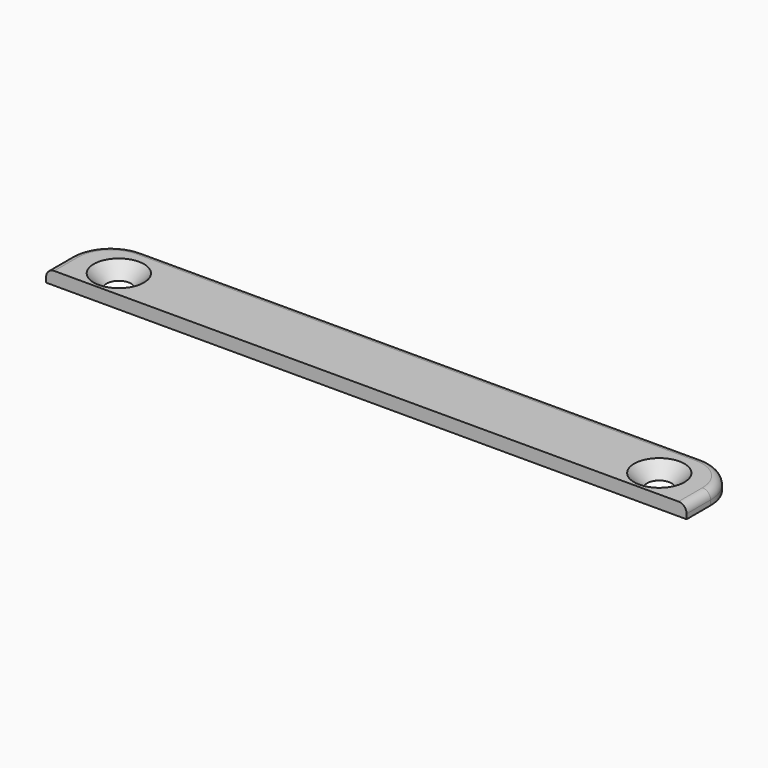
from build123d import *

# Parameters (mm, degrees)
SKETCH_W     = 79.03
SKETCH_H     = 8.7
PAD_DEPTH    = 1.6
SKETCH001_R  = 1.5
POCKET_DEPTH = 1.601
FILLET_R     = 5
FILLET001_R  = 1
CHAMFER_SIZE = 1.599


with BuildPart() as part:
    # Sketch → Pad (new body)
    with BuildSketch(Plane.XY):
        with Locations((0, 4.35)):
            Rectangle(SKETCH_W, SKETCH_H)
    extrude(amount=PAD_DEPTH)

    # Sketch001 (on Face6 of Pad) → Pocket (cut, through all)
    with BuildSketch(Plane.XY.offset(1.6)):
        with Locations((-33.34, 3.5)):
            Circle(SKETCH001_R)
        with Locations((33.34, 3.5)):
            Circle(SKETCH001_R)
    extrude(amount=-POCKET_DEPTH, mode=Mode.SUBTRACT)

    # Fillet
    fillet_edges = [part.edges().sort_by_distance(p)[0] for p in [
        (39.515, 8.7, 0.8),
        (-39.515, 8.7, 0.8),
    ]]
    fillet(fillet_edges, radius=FILLET_R)

    # Fillet001
    fillet001_edges = [part.edges().sort_by_distance(p)[0] for p in [
        (-38.050534, 7.235534, 1.6),
    ]]
    fillet(fillet001_edges, radius=FILLET001_R)

    # Chamfer
    chamfer_edges = [part.edges().sort_by_distance(p)[0] for p in [
        (31.84, 3.5, 1.6),
        (-34.84, 3.5, 1.6),
    ]]
    chamfer(chamfer_edges, length=CHAMFER_SIZE)


solid = part.part
